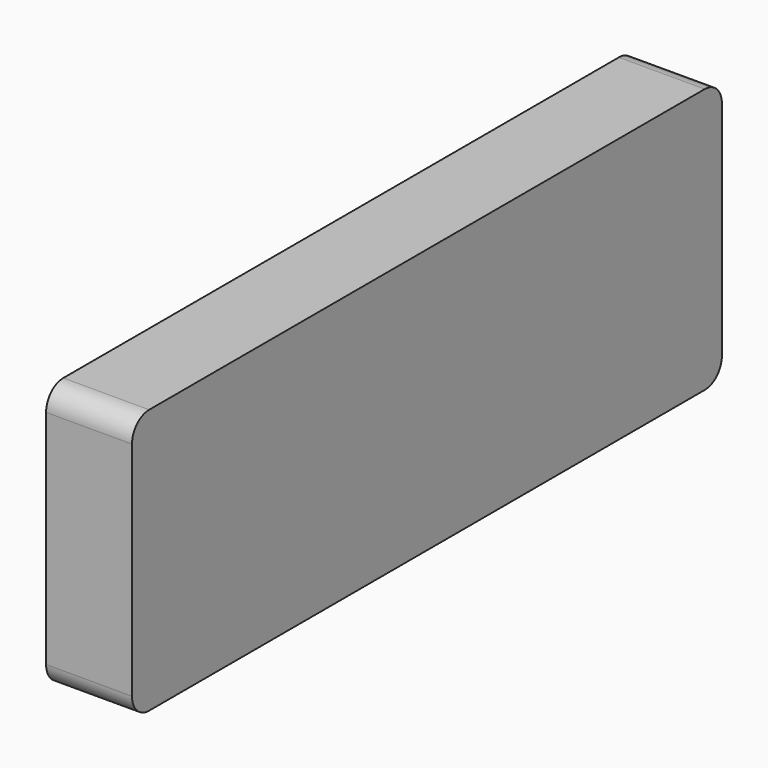
from build123d import *

# Parameters (mm, degrees)
F0_W     = 103
F0_H     = 37
F1_DEPTH = 6
F2_R     = 3


with BuildPart() as f1:
    # F0 (on Right) → F1 (new body, symmetric)
    with BuildSketch(Plane.YZ):
        Rectangle(F0_W, F0_H)
    extrude(amount=F1_DEPTH, both=True)

    # F2
    f2_edges = [f1.edges().sort_by_distance(p)[0] for p in [
        (0, -51.5, 18.5),
        (0, -51.5, -18.5),
        (0, 51.5, -18.5),
        (0, 51.5, 18.5),
    ]]
    fillet(f2_edges, radius=F2_R)


solid = f1.part
